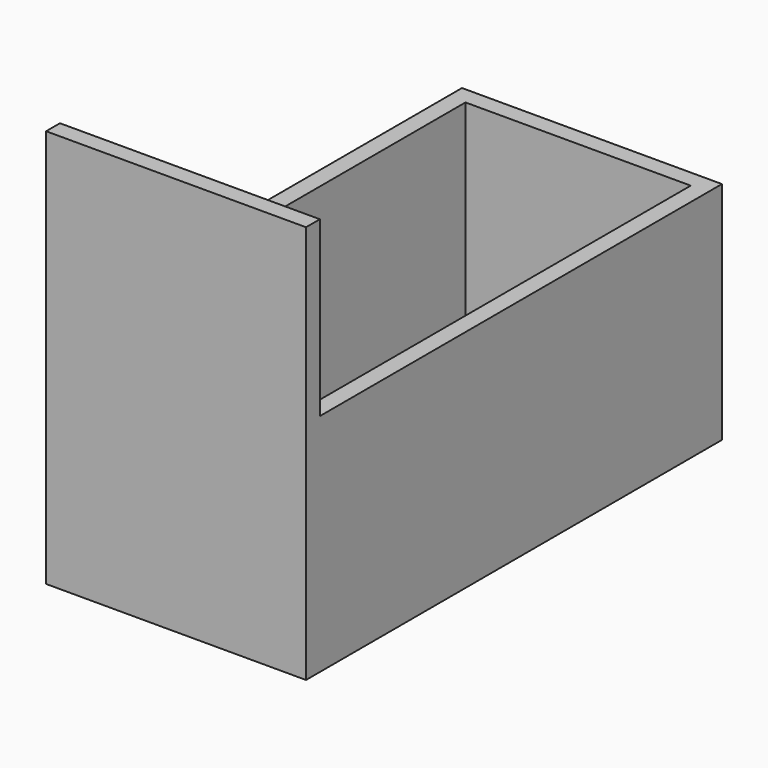
from build123d import *

# Parameters (mm, degrees)
F0_W     = 150
F0_H     = 300
F1_DEPTH = 130
F2_T     = -10
F3_W     = 150
F3_H     = 10
F4_DEPTH = 100


with BuildPart() as f1:
    # F0 (on Top) → F1 (new body)
    with BuildSketch(Plane.XY):
        Rectangle(F0_W, F0_H)
    extrude(amount=F1_DEPTH)

    # F2
    f2_openings = [f1.faces().sort_by_distance(p)[0] for p in [
        (0, 0, 130),
    ]]
    offset(amount=F2_T, openings=f2_openings)

    # F3 (on face) → F4 (join)
    with BuildSketch(Plane.XY.offset(130)):
        with Locations((0, -145)):
            Rectangle(F3_W, F3_H)
    extrude(amount=F4_DEPTH)


solid = f1.part
